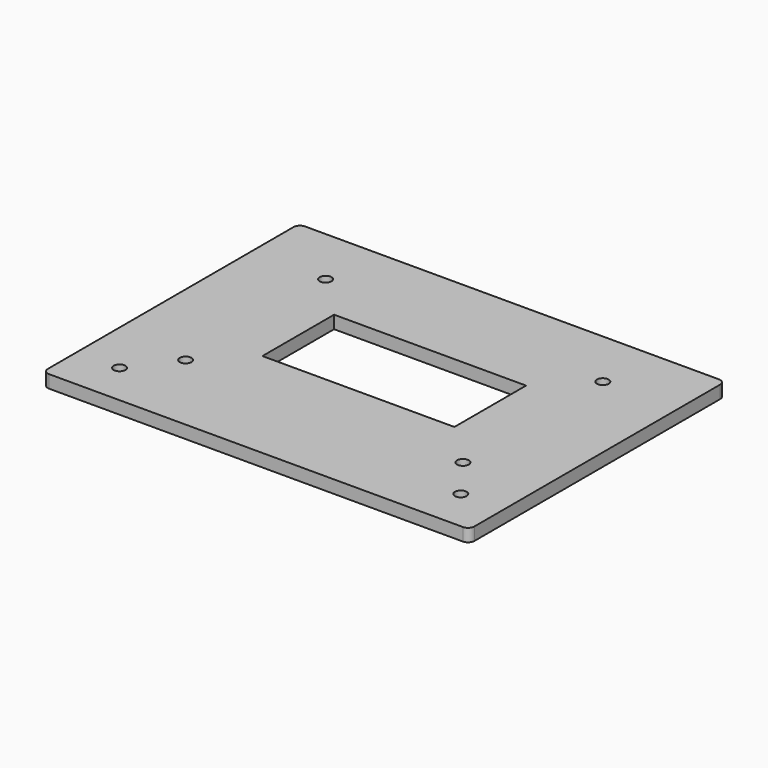
from build123d import *

# Parameters (mm, degrees)
SKETCH_W     = 200
SKETCH_H     = 150
PAD_DEPTH    = 6
FILLET_R     = 3
SKETCH001_R  = 2.75
SKETCH001_W  = 90
SKETCH001_H  = 42
POCKET_DEPTH = 6.001


with BuildPart() as part:
    # Sketch → Pad (new body)
    with BuildSketch(Plane.XY):
        Rectangle(SKETCH_W, SKETCH_H)
    extrude(amount=-PAD_DEPTH)

    # Fillet
    fillet_edges = [part.edges().sort_by_distance(p)[0] for p in [
        (-100, -75, -3),
        (100, -75, -3),
        (100, 75, -3),
        (-100, 75, -3),
    ]]
    fillet(fillet_edges, radius=FILLET_R)

    # Sketch001 (on Face2 of Fillet) → Pocket (cut, through all)
    with BuildSketch(Plane.XY):
        with Locations((-80, -55)):
            Circle(SKETCH001_R)
        with Locations((80, -55)):
            Circle(SKETCH001_R)
        with Locations((-65, 47)):
            Circle(SKETCH001_R)
        with Locations((65, 47)):
            Circle(SKETCH001_R)
        with Locations((65, -35)):
            Circle(SKETCH001_R)
        with Locations((-65, -35)):
            Circle(SKETCH001_R)
        with Locations((0, 6)):
            Rectangle(SKETCH001_W, SKETCH001_H)
    extrude(amount=-POCKET_DEPTH, mode=Mode.SUBTRACT)


solid = part.part
